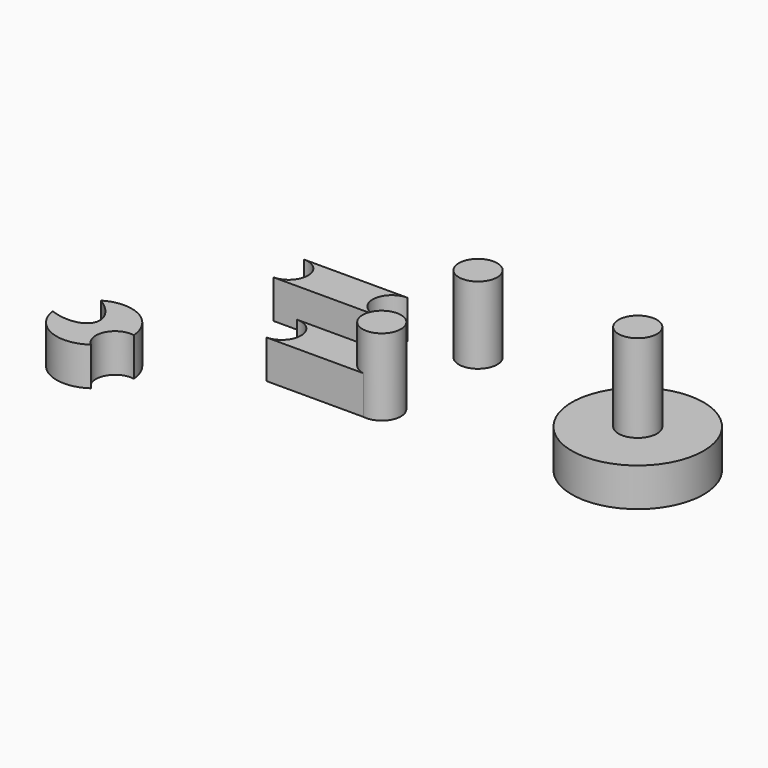
from build123d import *

# Parameters (mm, degrees)
F0_R      = 43.5419108218
F0_R_2    = 12.7
F1_DEPTH  = 25.4
F2_R      = 12.7
F3_DEPTH  = 83.43603
F5_DEPTH  = 25.4
F6_R      = 12.7
F7_DEPTH  = 50.8
F9_DEPTH  = 25.4
F10_R     = 12.7
F11_DEPTH = 50.8
F13_DEPTH = 25.4


with BuildPart() as f1:
    # F0 (on Top) → F1 (new body)
    with BuildSketch(Plane.XY):
        Circle(F0_R)
        Circle(F0_R_2, mode=Mode.SUBTRACT)
    extrude(amount=F1_DEPTH)


with BuildPart() as f3:
    # F2 (on Top) → F3 (new body)
    with BuildSketch(Plane.XY):
        Circle(F2_R)
    extrude(amount=F3_DEPTH)


with BuildPart() as f5:
    # F4 (on Top) → F5 (new body)
    with BuildSketch(Plane.XY):
        with BuildLine():
            Line((-182.9726426302, 38.2443016067), (-251.1515887083, 38.2443016067))
            ThreePointArc((-251.1515887083, 38.2443016067), (-238.4515887083, 25.5443016067), (-251.1515887083, 12.8443016067))
            Line((-251.1515887083, 12.8443016067), (-182.9726426302, 12.8443016067))
            ThreePointArc((-182.9726426302, 12.8443016067), (-195.6726426302, 25.5443016067), (-182.9726426302, 38.2443016067))
        make_face()
    extrude(amount=F5_DEPTH)


with BuildPart() as f7:
    # F6 (on Top) → F7 (new body)
    with BuildSketch(Plane.XY):
        with Locations((-143.131390214, 46.9402968884)):
            Circle(F6_R)
    extrude(amount=F7_DEPTH)


with BuildPart() as f9:
    # F8 (on Top) → F9 (new body)
    with BuildSketch(Plane.XY):
        with BuildLine():
            Line((-145.8231465792, -16.5038982734), (-211.9968278433, -16.5038982734))
            ThreePointArc((-211.9968278433, -16.5038982734), (-199.2968278433, -29.2038982734), (-211.9968278433, -41.9038982734))
            Line((-211.9968278433, -41.9038982734), (-145.8231465792, -41.9038982734))
            ThreePointArc((-145.8231465792, -41.9038982734), (-158.5231465792, -29.2038982734), (-145.8231465792, -16.5038982734))
        make_face()
    extrude(amount=F9_DEPTH)


with BuildPart() as f11:
    # F10 (on Top) → F11 (new body)
    with BuildSketch(Plane.XY):
        with Locations((-145.7416468478, -29.3668110708)):
            Circle(F10_R)
    extrude(amount=F11_DEPTH)


with BuildPart() as f13:
    # F12 (on Top) → F13 (new body)
    with BuildSketch(Plane.XY):
        with BuildLine():
            add(Edge.make_bspline(
                [(-316.4309012913, -88.0103122679), (-296.9360377441, -95.1055377668), (-291.834365272, -84.4284668565), (-286.7326927998, -73.7513959461), (-304.500594366, -63.0418859881)],
                knots=[4.8824621805, 4.8824621805, 4.8824621805, 6.2831853072, 6.2831853072, 7.6839084338, 7.6839084338, 7.6839084338], degree=2, weights=[1, 0.7646092118, 1, 0.7646092118, 1]))
            ThreePointArc((-316.4309012913, -88.0103122679), (-301.7171860694, -107.2352433448), (-277.628177595, -104.824629054))
            ThreePointArc((-277.628177595, -104.824629054), (-280.8661498963, -89.669252735), (-267.0408927456, -82.6669559179))
            ThreePointArc((-267.0408927456, -82.6669559179), (-280.2994898607, -62.4110680558), (-304.500594366, -63.0418859881))
        make_face()
    extrude(amount=F13_DEPTH)


solid = Compound([f1.part, f3.part, f5.part, f7.part, f9.part, f11.part, f13.part])
